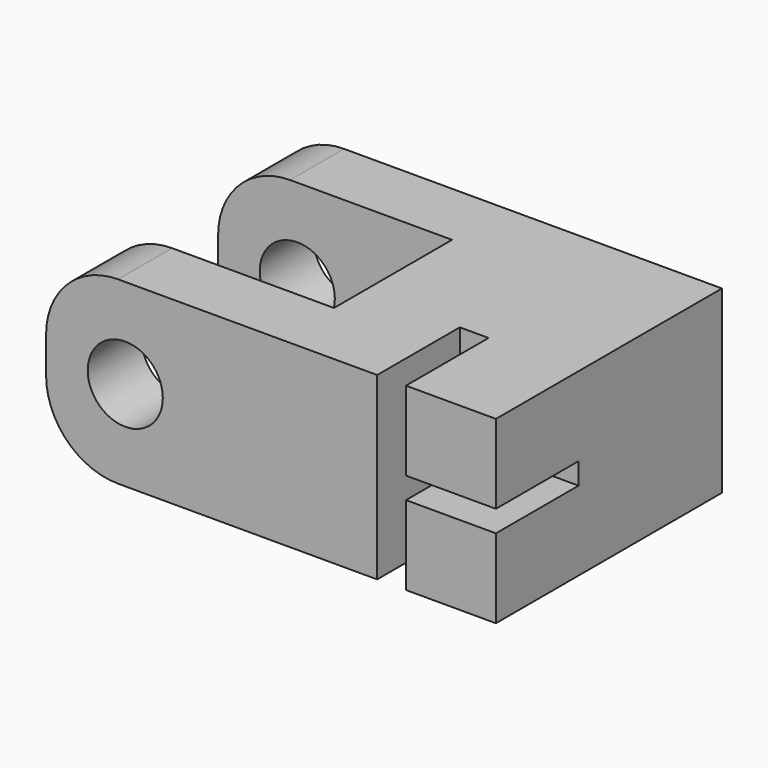
from build123d import *

# Parameters (mm, degrees)
F1_DEPTH = 12.7
F2_R     = 2.65
F3_DEPTH = 51.816
F4_R     = 5.08
F5_W     = 6.35
F5_H     = 1.524
F6_DEPTH = 7.2898


with BuildPart() as f1:
    # F0 (on Top) → F1 (new body)
    with BuildSketch(Plane.XY):
        Polygon((16.51, 0), (0, 0), (0, -4.7625), (25.4, -4.7625), (31.75, -4.7625), (31.75, 15.1765), (0, 15.1765), (0, 10.414), (16.51, 10.414), align=None)
    extrude(amount=F1_DEPTH)

    # F2 (on face) → F3 (cut)
    with BuildSketch(Plane.XZ.offset(4.7625)):
        with Locations((5.588, 6.35)):
            Circle(F2_R)
    extrude(amount=-F3_DEPTH, mode=Mode.SUBTRACT)

    # F4
    f4_edges = [f1.edges().sort_by_distance(p)[0] for p in [
        (0, -2.38125, 12.7),
        (0, 12.79525, 12.7),
        (0, -2.38125, 0),
        (0, 12.79525, 0),
    ]]
    fillet(f4_edges, radius=F4_R)

    # F5 (on face) → F6 (cut)
    with BuildSketch(Plane.XZ.offset(4.7625)):
        Polygon((25.4, 7.112), (25.4, 14.78833), (23.368, 14.78833), (23.368, -2.12807), (25.4, -2.12807), (25.4, 5.588), align=None)
        with Locations((28.575, 6.35)):
            Rectangle(F5_W, F5_H)
    extrude(amount=-F6_DEPTH, mode=Mode.SUBTRACT)


solid = f1.part
